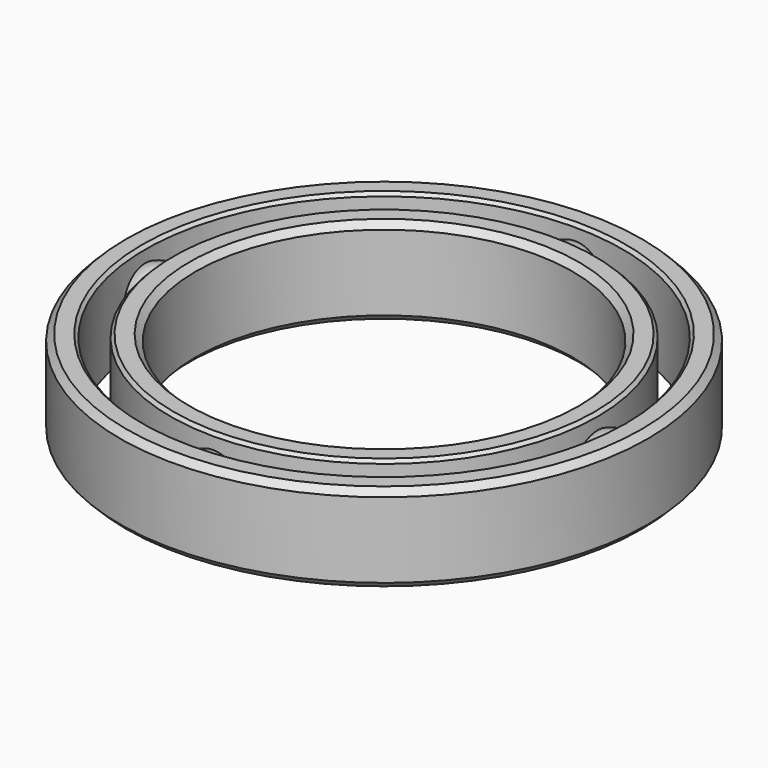
from build123d import *

# Parameters (mm, degrees)
CYLINDER001_R     = 19
CYLINDER001_DEPTH = 10
CYLINDER_R        = 21
CYLINDER_DEPTH    = 7
CHAMFER_SIZE      = 0.5
CHAMFER001_SIZE   = 0.5
CHAMFER005_SIZE   = 0.25
CYLINDER003_R     = 15
CYLINDER003_DEPTH = 10
CYLINDER002_R     = 17
CYLINDER002_DEPTH = 7
CHAMFER002_SIZE   = 0.5
CHAMFER003_SIZE   = 0.5
CHAMFER004_SIZE   = 0.25


with BuildPart() as cylinder19r:
    # Cylinder001 → Cylinder001 (new body)
    with BuildSketch(Plane.XY.offset(-1.5)):
        Circle(CYLINDER001_R)
    extrude(amount=CYLINDER001_DEPTH)


with BuildPart() as chamfer005:
    # Cylinder → Cylinder (new body)
    with BuildSketch(Plane.XY):
        Circle(CYLINDER_R)
    extrude(amount=CYLINDER_DEPTH)

    # Cut: cut Cylinder19R
    add(cylinder19r.part, mode=Mode.SUBTRACT)

    # Chamfer
    chamfer_edges = [chamfer005.edges().sort_by_distance(p)[0] for p in [
        (-21, 0, 7),
    ]]
    chamfer(chamfer_edges, length=CHAMFER_SIZE)

    # Chamfer001
    chamfer001_edges = [chamfer005.edges().sort_by_distance(p)[0] for p in [
        (-21, 0, 0),
    ]]
    chamfer(chamfer001_edges, length=CHAMFER001_SIZE)

    # Chamfer005
    chamfer005_edges = [chamfer005.edges().sort_by_distance(p)[0] for p in [
        (-13.435029, 13.435029, 7),
    ]]
    chamfer(chamfer005_edges, length=CHAMFER005_SIZE)


with BuildPart() as obj1:
    # Sphere → Sphere (revolve)
    with BuildSketch(Plane(origin=(17.999971, 0, 3.5), x_dir=(1, 0, 0), z_dir=(0, -1, 0))):
        with BuildLine():
            ThreePointArc((0, -2.5), (2.5, 0), (0, 2.5))
            Line((0, 2.5), (0, -2.5))
        make_face()
    revolve(axis=Axis((17.999971, 0, 3.5), (0, 0, 1)))


with BuildPart() as balls:
    # Sphere3 → Sphere3 (revolve)
    with BuildSketch(Plane(origin=(-18, 0, 3.5), x_dir=(1, 0, 0), z_dir=(0, -1, 0))):
        with BuildLine():
            ThreePointArc((0, -2.5), (2.5, 0), (0, 2.5))
            Line((0, 2.5), (0, -2.5))
        make_face()
    revolve(axis=Axis((-18, 0, 3.5), (0, 0, 1)))


with BuildPart() as obj2:
    # Sphere004 → Sphere004 (revolve)
    with BuildSketch(Plane(origin=(0, 18, 3.5), x_dir=(1, 0, 0), z_dir=(0, -1, 0))):
        with BuildLine():
            ThreePointArc((0, -2.5), (2.5, 0), (0, 2.5))
            Line((0, 2.5), (0, -2.5))
        make_face()
    revolve(axis=Axis((0, 18, 3.5), (0, 0, 1)))


with BuildPart() as balle:
    # Sphere005 → Sphere005 (revolve)
    with BuildSketch(Plane(origin=(0, -18, 3.5), x_dir=(1, 0, 0), z_dir=(0, -1, 0))):
        with BuildLine():
            ThreePointArc((0, -2.5), (2.5, 0), (0, 2.5))
            Line((0, 2.5), (0, -2.5))
        make_face()
    revolve(axis=Axis((0, -18, 3.5), (0, 0, 1)))


with BuildPart() as cylinder15r:
    # Cylinder003 → Cylinder003 (new body)
    with BuildSketch(Plane.XY):
        Circle(CYLINDER003_R)
    extrude(amount=CYLINDER003_DEPTH)


with BuildPart() as ballrace30x42x7:
    # Cylinder002 → Cylinder002 (new body)
    with BuildSketch(Plane.XY):
        Circle(CYLINDER002_R)
    extrude(amount=CYLINDER002_DEPTH)

    # Cut001: cut Cylinder15R
    add(cylinder15r.part, mode=Mode.SUBTRACT)

    # Chamfer002
    chamfer002_edges = [ballrace30x42x7.edges().sort_by_distance(p)[0] for p in [
        (-10.606602, 10.606602, 7),
    ]]
    chamfer(chamfer002_edges, length=CHAMFER002_SIZE)

    # Chamfer003
    chamfer003_edges = [ballrace30x42x7.edges().sort_by_distance(p)[0] for p in [
        (-15, 0, 0),
    ]]
    chamfer(chamfer003_edges, length=CHAMFER003_SIZE)

    # Chamfer004
    chamfer004_edges = [ballrace30x42x7.edges().sort_by_distance(p)[0] for p in [
        (-17, 0, 7),
    ]]
    chamfer(chamfer004_edges, length=CHAMFER004_SIZE)

    # Fusion: union Chamfer005, obj1, ballS, obj2, ballE
    add(chamfer005.part)
    add(obj1.part)
    add(balls.part)
    add(obj2.part)
    add(balle.part)


solid = ballrace30x42x7.part
